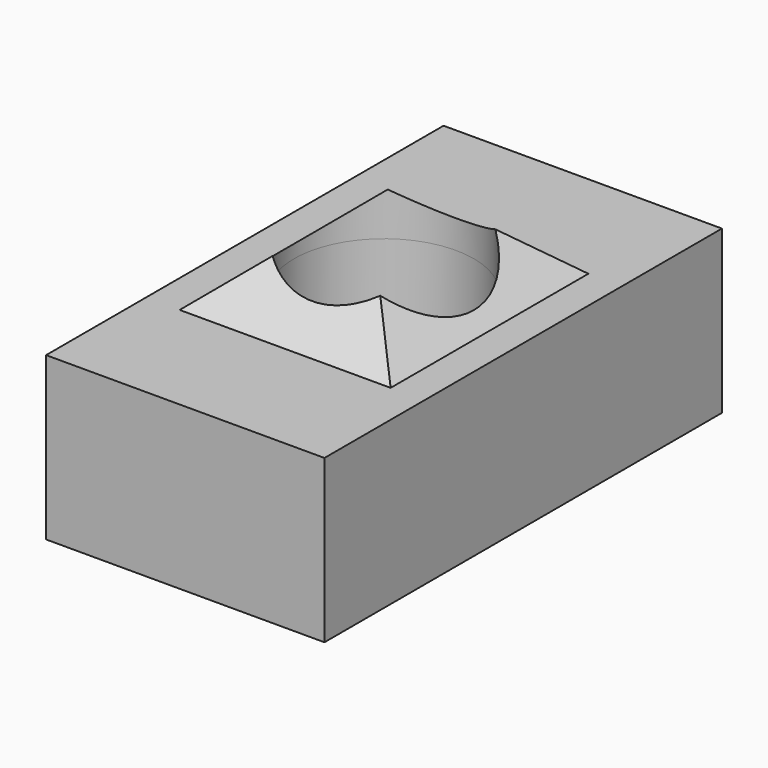
from build123d import *

# Parameters (mm, degrees)
F0_W     = 43.5707718134
F0_H     = 77.7630805969
F0_R     = 14.0639610487
F1_DEPTH = 25.4
F2_W     = 33.0200046301
F2_H     = 38.6861525476
F3_DEPTH = 25.4
F3_TAPER = 50
F4_R     = 14.0639610487
F5_DEPTH = 25.4


with BuildPart() as f1:
    # F0 (on Top) → F1 (new body)
    with BuildSketch(Plane.XY):
        Rectangle(F0_W, F0_H)
        Circle(F0_R, mode=Mode.SUBTRACT)
    extrude(amount=F1_DEPTH)

    # F2 (on face) → F3 (join)
    with BuildSketch(Plane.XY.offset(25.4)):
        Rectangle(F2_W, F2_H)
    extrude(amount=F3_DEPTH, taper=F3_TAPER)

    # F4 (on face) → F5 (cut)
    with BuildSketch(Plane(origin=(0, 0, 25.4), x_dir=(1, 0, 0), z_dir=(0, 0, -1))):
        Circle(F4_R)
    extrude(amount=-F5_DEPTH, mode=Mode.SUBTRACT)


solid = f1.part
